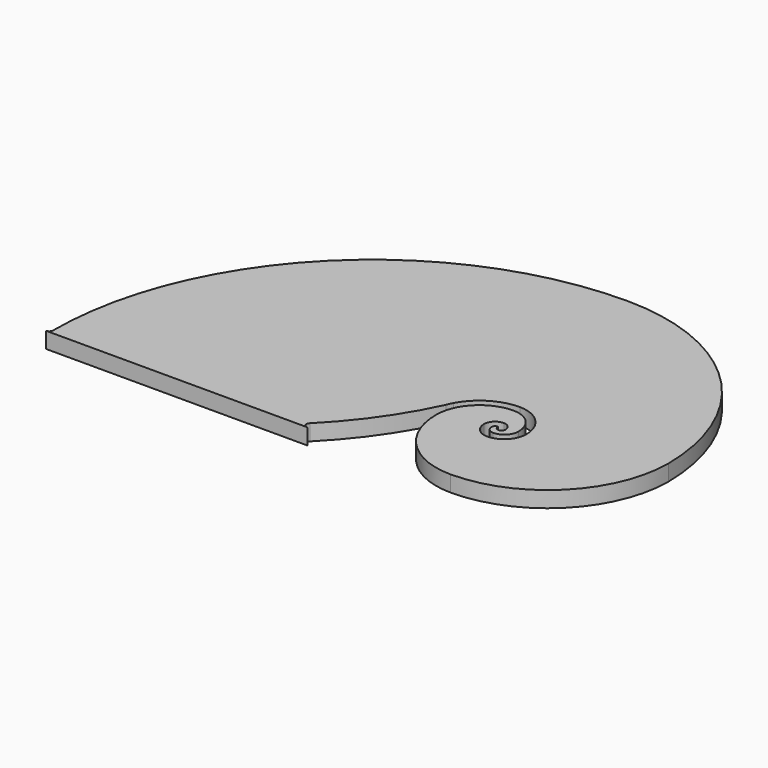
from build123d import *

# Parameters (mm, degrees)
F1_DEPTH = 25


with BuildPart() as f1:
    # F0 (on Top) → F1 (new body)
    with BuildSketch(Plane.XY):
        with BuildLine():
            ThreePointArc((306.79226, -127.929437), (311.81948, -115.792653), (323.956265, -110.765432))
            ThreePointArc((323.956265, -110.765432), (332.826212, -114.439485), (336.500265, -123.309432))
            ThreePointArc((336.500265, -123.309432), (330.500265, -129.309432), (324.500265, -123.309432))
            ThreePointArc((324.500265, -123.309432), (324.340931, -122.924766), (323.956265, -122.765432))
            ThreePointArc((323.956265, -122.765432), (320.304762, -124.277934), (318.79226, -127.929437))
            ThreePointArc((318.79226, -127.929437), (322.075007, -135.85469), (330.00026, -139.137437))
            ThreePointArc((330.00026, -139.137437), (345.477622, -132.719745), (351.872235, -117.232833))
            ThreePointArc((351.872235, -117.232833), (340.74764, -89.45185), (313.232341, -77.685459))
            ThreePointArc((313.232341, -77.685459), (265.575313, -97.462858), (245.84026, -145.137437))
            ThreePointArc((245.84026, -145.137437), (278.661963, -224.364314), (357.895707, -257.169435))
            ThreePointArc((357.895707, -257.169435), (491.315491, -202.202906), (547.341988, -69.224752))
            ThreePointArc((547.341988, -69.224752), (456.384064, 145.951907), (240.340265, 234.830562))
            ThreePointArc((240.340265, 234.830562), (-111.798912, 88.969739), (-257.659735, -263.169437))
            ThreePointArc((-257.659735, -263.169437), (-259.417094, -267.412078), (-263.659735, -269.169437))
            Line((-263.659735, -269.169437), (143.917844, -269.169437))
            Line((143.917844, -269.169437), (143.917844, -269.167725))
            ThreePointArc((143.917844, -269.167725), (138.370203, -265.466321), (139.669806, -258.925086))
            ThreePointArc((139.669806, -258.925086), (195.55159, -192.308055), (238.994524, -116.986649))
            ThreePointArc((238.994524, -116.986649), (240.92914, -112.33196), (243.155024, -107.809316))
            ThreePointArc((243.155024, -107.809316), (272.384887, -77.025709), (313.292265, -65.685432))
            ThreePointArc((313.292265, -65.685432), (349.277676, -81.011298), (363.872242, -117.299459))
            ThreePointArc((363.872242, -117.299459), (353.939349, -141.228584), (330.00026, -151.137437))
            ThreePointArc((330.00026, -151.137437), (313.589725, -144.339972), (306.79226, -127.929437))
        make_face()
    extrude(amount=-F1_DEPTH)


solid = f1.part
